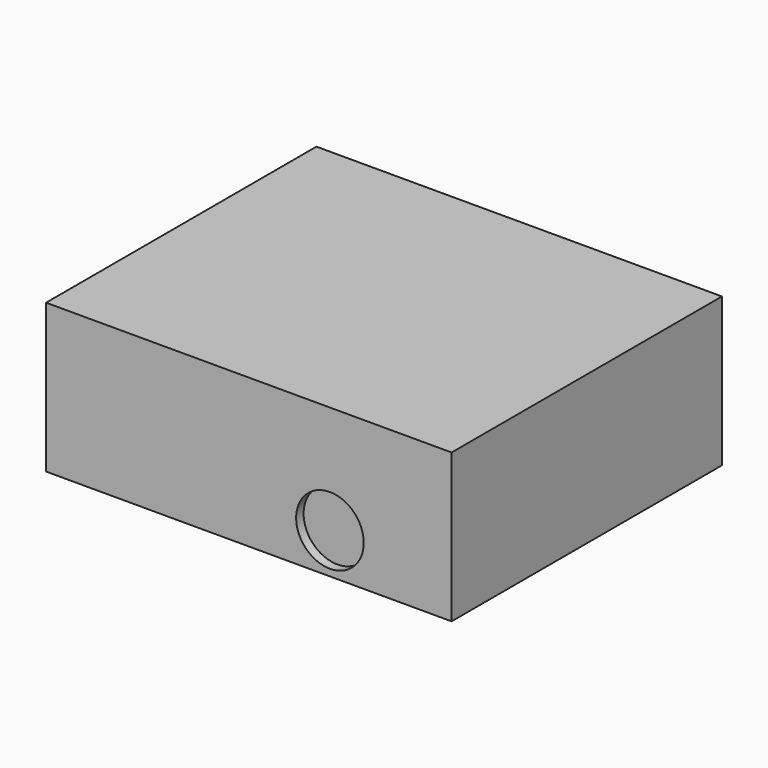
from build123d import *

# Parameters (mm, degrees)
F0_W     = 250
F0_H     = 110
F1_DEPTH = 150
F3_START = 122
F2_R     = 25
F3_DEPTH = 80


with BuildPart() as f1:
    # F0 (on Right) → F1 (new body, symmetric)
    with BuildSketch(Plane.YZ):
        with Locations((-3.8984939456, 54.9723605812)):
            Rectangle(F0_W, F0_H)
    extrude(amount=F1_DEPTH, both=True)

    # F2 (on Front) → F3 (cut)
    with BuildSketch(Plane.XZ.offset(F3_START)):
        with Locations((60, 29.9723605812)):
            Circle(F2_R)
    extrude(amount=F3_DEPTH, mode=Mode.SUBTRACT)


solid = f1.part
